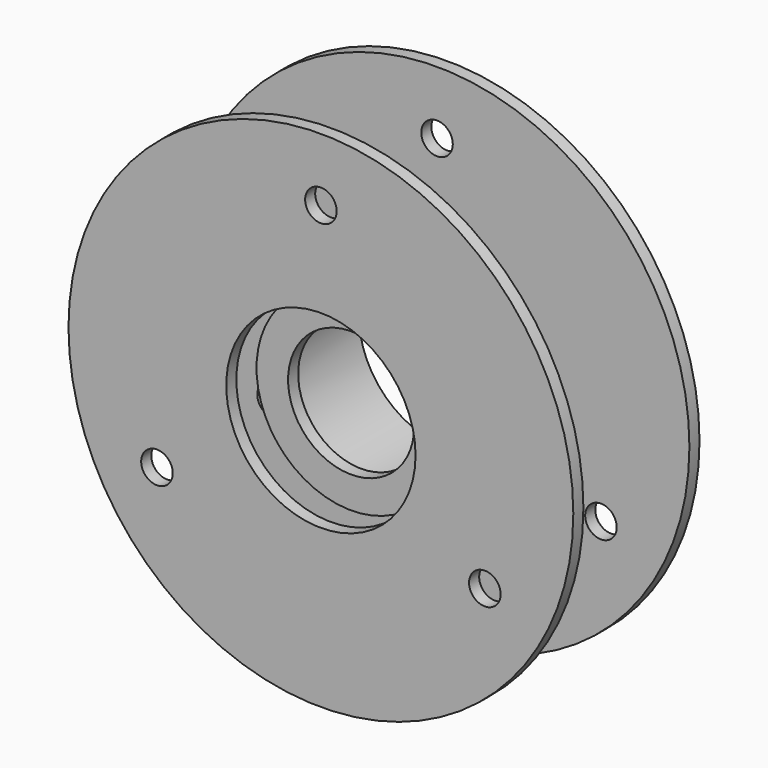
from build123d import *

# Parameters (mm, degrees)
F0_R     = 40
F0_R_2   = 2.5
F0_R_3   = 15
F1_DEPTH = 2
F0_R_4   = 14
F2_DEPTH = 19
F3_START = 17
F0_R_5   = 10
F3_DEPTH = 2
F4_START = 23
F4_DEPTH = 2


with BuildPart() as f1:
    # F0 (on Front) → F1 (new body)
    with BuildSketch(Plane.XZ):
        with Locations((-130, 0)):
            Circle(F0_R)
        with Locations((-155.9807621135, -15)):
            Circle(F0_R_2, mode=Mode.SUBTRACT)
        with Locations((-104.0192378865, -15)):
            Circle(F0_R_2, mode=Mode.SUBTRACT)
        with Locations((-130, 0)):
            Circle(F0_R_3, mode=Mode.SUBTRACT)
        with Locations((-130, 30)):
            Circle(F0_R_2, mode=Mode.SUBTRACT)
    extrude(amount=F1_DEPTH)

    # F0 (on Front) → F2 (join)
    with BuildSketch(Plane.XZ):
        with Locations((-130, 0)):
            Circle(F0_R_3)
        with Locations((-130, 0)):
            Circle(F0_R_4, mode=Mode.SUBTRACT)
    extrude(amount=F2_DEPTH)

    # F0 (on Front) → F3 (join)
    with BuildSketch(Plane.XZ.offset(F3_START)):
        with Locations((-130, 0)):
            Circle(F0_R_4)
        with Locations((-130, 0)):
            Circle(F0_R_5, mode=Mode.SUBTRACT)
    extrude(amount=F3_DEPTH)


with BuildPart() as f4:
    # F0 (on Front) → F4 (new body)
    with BuildSketch(Plane.XZ.offset(F4_START)):
        with Locations((-130, 0)):
            Circle(F0_R)
        with Locations((-155.9807621135, -15)):
            Circle(F0_R_2, mode=Mode.SUBTRACT)
        with Locations((-104.0192378865, -15)):
            Circle(F0_R_2, mode=Mode.SUBTRACT)
        with Locations((-130, 0)):
            Circle(F0_R_3, mode=Mode.SUBTRACT)
        with Locations((-130, 30)):
            Circle(F0_R_2, mode=Mode.SUBTRACT)
    extrude(amount=F4_DEPTH)


solid = Compound([f1.part, f4.part])
